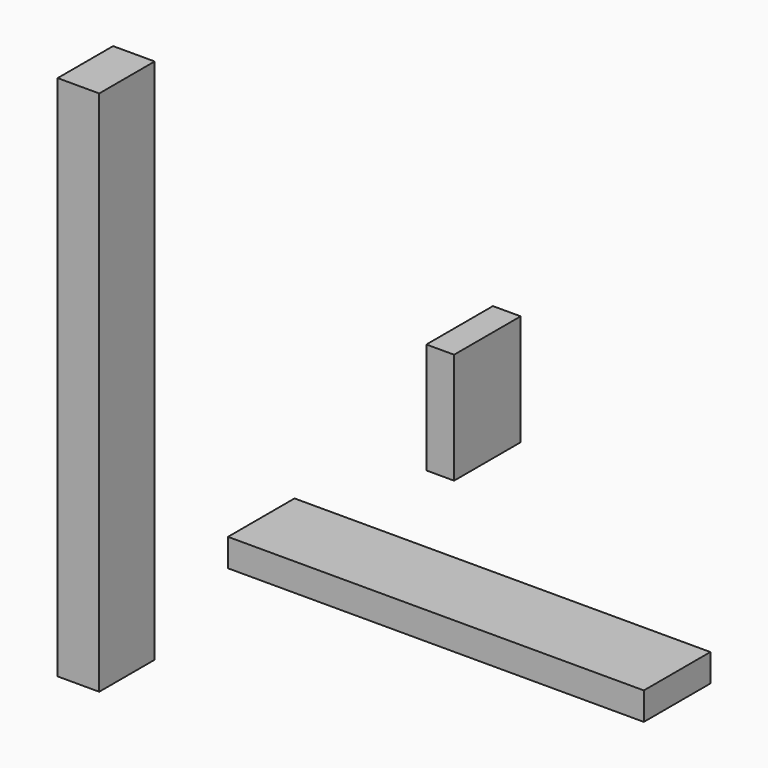
from build123d import *

# Parameters (mm, degrees)
F0_W     = 19.05
F0_H     = 241.3
F1_DEPTH = 31.75
F2_W     = 38.1
F2_H     = 12.7
F3_DEPTH = 190.5
F4_W     = 12.7
F4_H     = 38.1
F5_DEPTH = 50.8


with BuildPart() as f1:
    # F0 (on Front) → F1 (new body)
    with BuildSketch(Plane.XZ):
        with Locations((-43.111274, 79.552682)):
            Rectangle(F0_W, F0_H)
    extrude(amount=F1_DEPTH)


with BuildPart() as f3:
    # F2 (on Right) → F3 (new body)
    with BuildSketch(Plane.YZ):
        with Locations((19.05, 13.065203)):
            Rectangle(F2_W, F2_H)
    extrude(amount=F3_DEPTH)


with BuildPart() as f5:
    # F4 (on Top) → F5 (new body)
    with BuildSketch(Plane.XY):
        with Locations((6.35, 132.655449)):
            Rectangle(F4_W, F4_H)
    extrude(amount=F5_DEPTH)


solid = Compound([f1.part, f3.part, f5.part])
